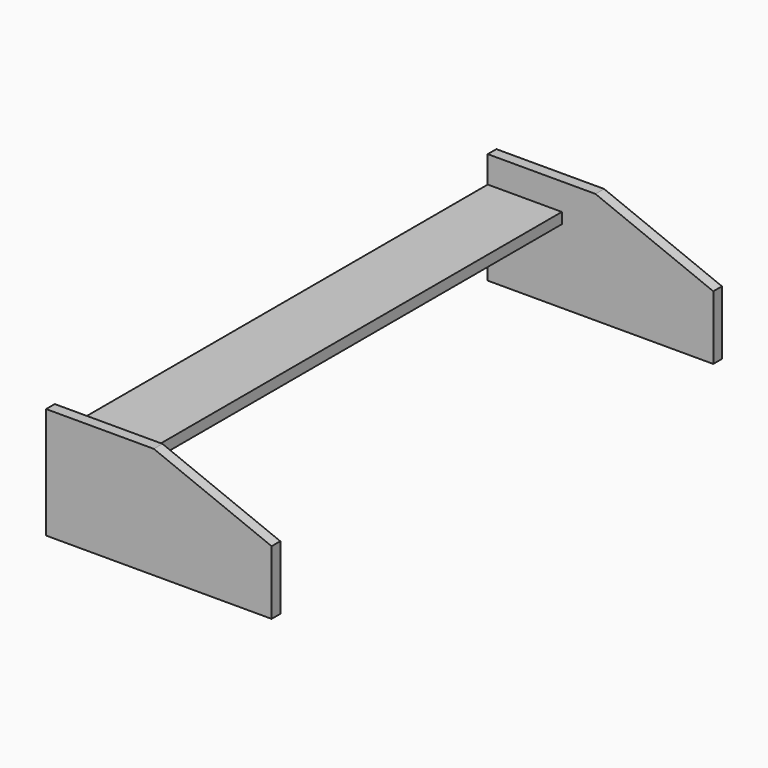
from build123d import *

# Parameters (mm, degrees)
F1_DEPTH = 0.762
F2_W     = 10.4317168638
F2_H     = 1.524
F3_DEPTH = 38.1


with BuildPart() as f1:
    # F0 (on Front) → F1 (new body, symmetric)
    with BuildSketch(Plane.XZ):
        Polygon((1.7629392188, 22.6165422688), (-13.3985944025, 22.6165422688), (-13.3985944025, 6.9341756906), (18.3514055975, 6.9341756906), (18.3514055975, 15.9407987012), align=None)
    extrude(amount=F1_DEPTH, both=True)

    # F2 (on face) → F3 (join)
    with BuildSketch(Plane(origin=(0, 0.762, 0), x_dir=(-1, 0, 0), z_dir=(0, 1, 0))):
        with Locations((8.1827359706, 18.0847395862)):
            Rectangle(F2_W, F2_H)
    extrude(amount=F3_DEPTH)

    # F5: F1 across plane


with BuildPart() as f1_1:
    add(f1.part)
    add(f1.part.mirror(Plane(origin=(-8.1827359706, 38.862, 18.0847395862), x_dir=(-1, 0, 0), z_dir=(0, 1, 0))))


solid = f1_1.part
